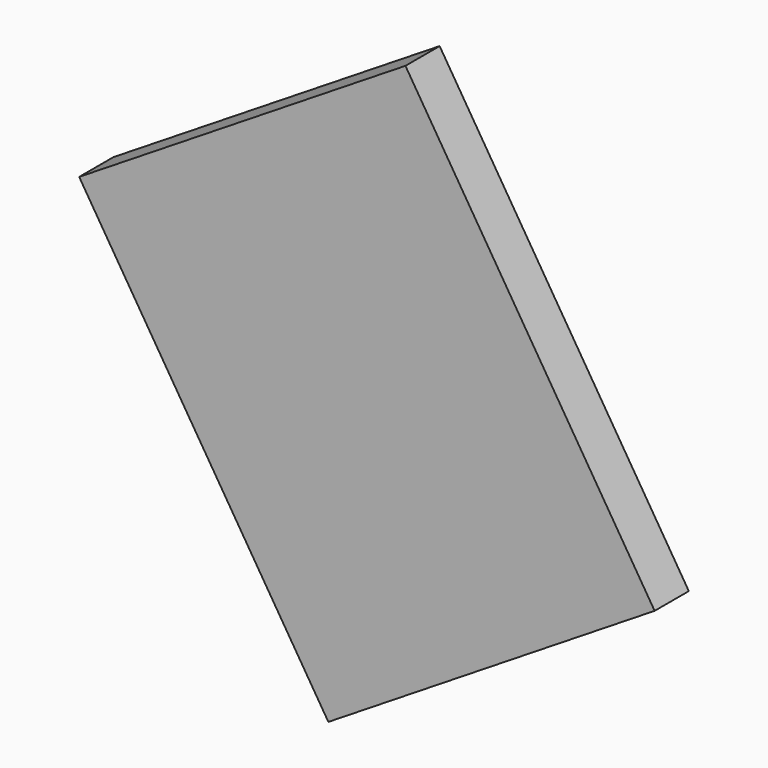
from build123d import *

# Parameters (mm, degrees)
CYLINDER068_R      = 0.5
CYLINDER068_DEPTH  = 0.01
BOX153_W           = 4.5
BOX153_H           = 5.5
BOX153_DEPTH       = 0.5
CUT072_ROLL_ANGLE  = -90
CUT072_PITCH_ANGLE = -32


with BuildPart() as cylinder068:
    # Cylinder068 → Cylinder068 (new body)
    with BuildSketch(Plane(origin=(1, 4.5, 0.49), x_dir=(1, 0, 0), z_dir=(0, 0, 1))):
        Circle(CYLINDER068_R)
    extrude(amount=CYLINDER068_DEPTH)


with BuildPart() as obj1:
    # Box153 → Box153 (new body)
    with BuildSketch(Plane.XY):
        with Locations((2.25, 2.75)):
            Rectangle(BOX153_W, BOX153_H)
    extrude(amount=BOX153_DEPTH)

    # Cut072: cut Cylinder068
    add(cylinder068.part, mode=Mode.SUBTRACT)


with BuildPart() as obj1_1:
    # Cut072 roll: moved
    add(obj1.part.rotate(Axis((0, 0, 0), (1, 0, 0)), CUT072_ROLL_ANGLE))


with BuildPart() as obj1_2:
    # Cut072 pitch: moved
    add(obj1_1.part.rotate(Axis((0, 0, 0), (0, 1, 0)), CUT072_PITCH_ANGLE))


with BuildPart() as obj1_3:
    # Cut072 placement: moved
    add(obj1_2.part.moved(Location((-9.429562, 2.79, 36.957147))))


solid = obj1_3.part
